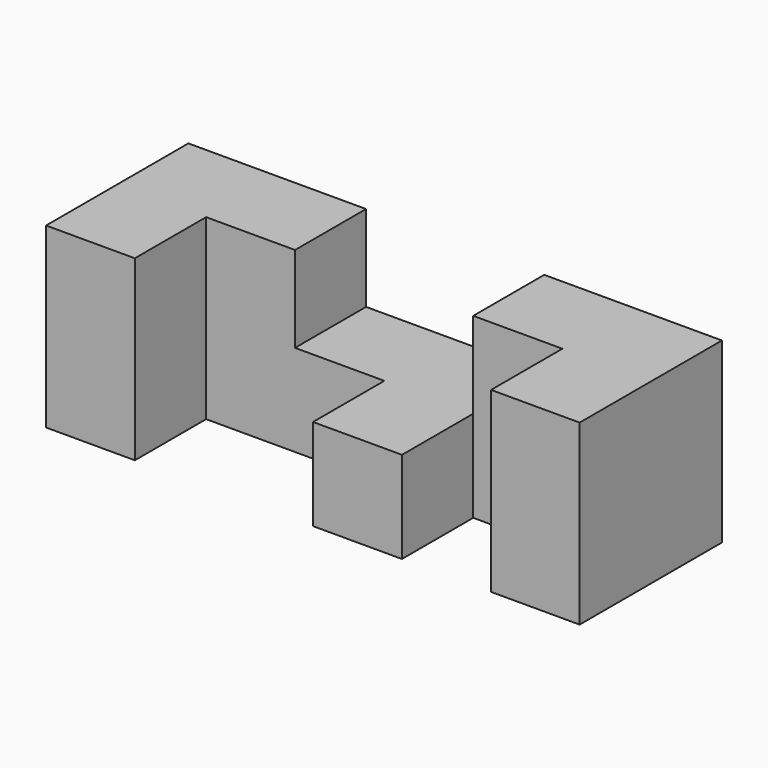
from build123d import *

# Parameters (mm, degrees)
F0_W     = 76.2
F0_H     = 25.4
F1_DEPTH = 25.4
F2_W     = 25.4508
F2_H     = 12.7254
F3_DEPTH = 25.4
F4_W     = 12.7254
F4_H     = 12.7254
F5_DEPTH = 25.4
F6_W     = 25.4508
F6_H     = 12.7254
F7_DEPTH = 25.654


with BuildPart() as f1:
    # F0 (on Top) → F1 (new body)
    with BuildSketch(Plane.XY):
        with Locations((38.1, 12.7)):
            Rectangle(F0_W, F0_H)
    extrude(amount=F1_DEPTH)

    # F2 (on Front) → F3 (cut)
    with BuildSketch(Plane.XZ):
        with Locations((38.1, 19.458432)):
            Rectangle(F2_W, F2_H)
    extrude(amount=-F3_DEPTH, mode=Mode.SUBTRACT)

    # F4 (on face) → F5 (cut)
    with BuildSketch(Plane.XY.offset(25.4)):
        with Locations((57.1881, 6.3627)):
            Rectangle(F4_W, F4_H)
    extrude(amount=-F5_DEPTH, mode=Mode.SUBTRACT)

    # F6 (on Top) → F7 (cut)
    with BuildSketch(Plane.XY):
        with Locations((25.4, 6.3627)):
            Rectangle(F6_W, F6_H)
    extrude(amount=F7_DEPTH, mode=Mode.SUBTRACT)


solid = f1.part
